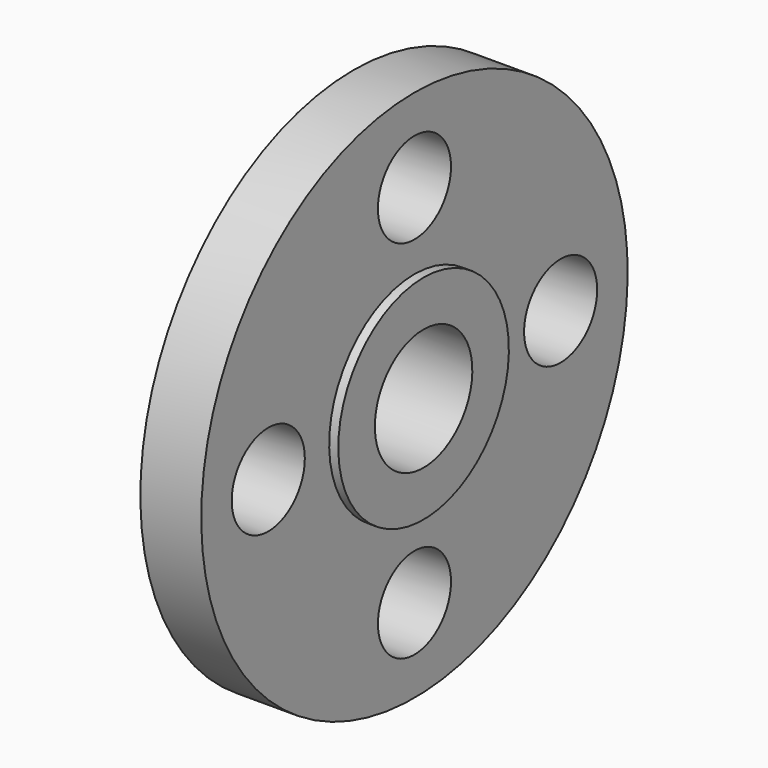
from build123d import *

# Parameters (mm, degrees)
F2_R     = 7.62
F3_DEPTH = 13.717


with BuildPart() as f1:
    # F0 (on Front) → F1 (revolve)
    with BuildSketch(Plane.XZ):
        Polygon((-30.126043, 15.24), (-30.126043, 10.16), (-14.886043, 10.16), (-14.886043, 17.78), (-16.410043, 17.78), (-16.410043, 44.45), (-26.570043, 44.45), (-26.570043, 15.24), align=None)
    revolve(axis=Axis((-11.575326, 0, 0), (1, 0, 0)))

    # F2 (on face) → F3 (cut, through all)
    with BuildSketch(Plane.YZ.offset(-16.410043)):
        with Locations((0, 30.48)):
            Circle(F2_R)
        with Locations((-30.48, 0)):
            Circle(F2_R)
        with Locations((0, -30.48)):
            Circle(F2_R)
        with Locations((30.48, 0)):
            Circle(F2_R)
    extrude(amount=-F3_DEPTH, mode=Mode.SUBTRACT)


solid = f1.part
